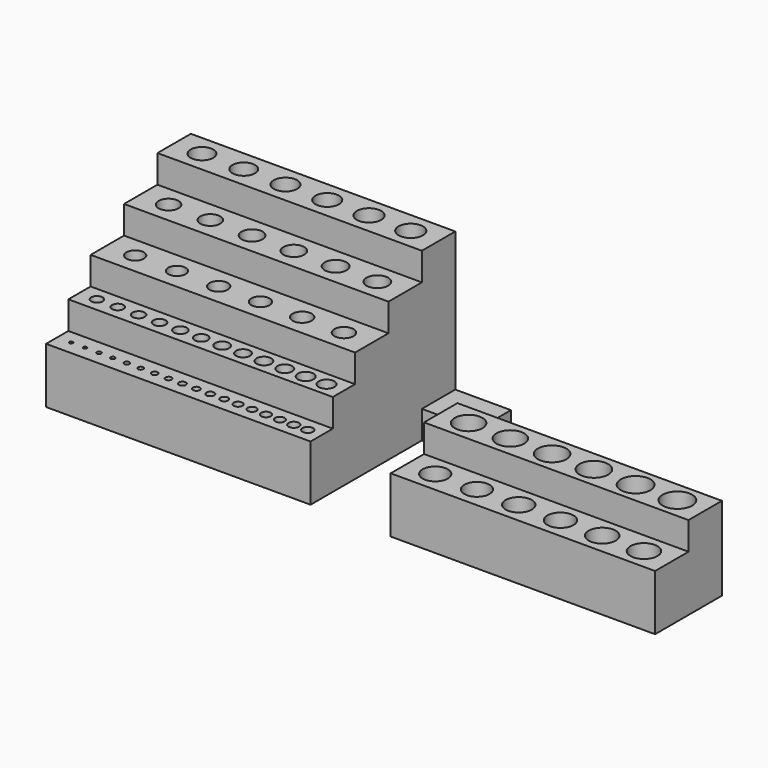
from build123d import *

# Parameters (mm, degrees)
F0_W      = 120.65
F0_H      = 19.05
F1_DEPTH  = 63.5
F2_DEPTH  = 50.8
F0_H_2    = 12.7
F3_DEPTH  = 38.1
F4_DEPTH  = 25.4
F6_D      = 1.5875
F6_DEPTH  = 19.05
F6_TIP    = 0.4769331164
F7_D      = 1.984375
F7_DEPTH  = 19.05
F7_TIP    = 0.5961663954
F8_D      = 2.38125
F8_DEPTH  = 19.05
F8_TIP    = 0.7153996745
F9_D      = 2.778125
F9_DEPTH  = 19.05
F9_TIP    = 0.8346329536
F10_D     = 3.175
F10_DEPTH = 19.05
F10_TIP   = 0.9538662327
F11_D     = 3.571875
F11_DEPTH = 19.05
F11_TIP   = 1.0730995118
F12_D     = 3.96875
F12_DEPTH = 19.05
F12_TIP   = 1.1923327909
F13_D     = 4.365625
F13_DEPTH = 19.05
F13_TIP   = 1.31156607
F14_D     = 4.7625
F14_DEPTH = 19.05
F14_TIP   = 1.4307993491
F16_D     = 5.159375
F16_DEPTH = 19.05
F16_TIP   = 1.5500326281
F17_D     = 5.55625
F17_DEPTH = 19.05
F17_TIP   = 1.6692659072
F18_D     = 5.953125
F18_DEPTH = 19.05
F18_TIP   = 1.7884991863
F19_D     = 6.35
F19_DEPTH = 19.05
F19_TIP   = 1.9077324654
F20_D     = 6.746875
F20_DEPTH = 19.05
F20_TIP   = 2.0269657445
F21_D     = 7.14375
F21_DEPTH = 19.05
F21_TIP   = 2.1461990236
F23_D     = 7.9375
F23_DEPTH = 19.05
F23_TIP   = 2.3846655818
F24_D     = 8.334375
F24_DEPTH = 19.05
F24_TIP   = 2.5038988609
F25_D     = 8.73125
F25_DEPTH = 19.05
F25_TIP   = 2.6231321399
F27_D     = 9.128125
F27_DEPTH = 19.05
F27_TIP   = 2.742365419
F28_D     = 9.525
F28_DEPTH = 19.05
F28_TIP   = 2.8615986981
F29_D     = 9.921875
F29_DEPTH = 19.05
F29_TIP   = 2.9808319772
F30_DEPTH = 76.2
F32_D     = 10.31875
F32_DEPTH = 19.05
F32_TIP   = 3.1000652563
F33_D     = 10.715625
F33_DEPTH = 19.05
F33_TIP   = 3.2192985354
F34_D     = 11.1125
F34_DEPTH = 19.05
F34_TIP   = 3.3385318145
F35_W     = 19.05
F35_H     = 12.7
F36_DEPTH = 25.4
F37_W     = 120.65
F37_H     = 19.05
F38_DEPTH = 25.4
F40_D     = 11.509375
F40_DEPTH = 19.05
F40_TIP   = 3.4577650936
F41_D     = 11.90625
F41_DEPTH = 19.05
F41_TIP   = 3.5769983726
F42_D     = 12.303125
F42_DEPTH = 19.05
F42_TIP   = 3.6962316517
F43_DEPTH = 38.1
F45_D     = 12.7
F45_DEPTH = 19.05
F45_TIP   = 3.8154649308
F46_D     = 13.096875
F46_DEPTH = 19.05
F46_TIP   = 3.9346982099
F47_D     = 13.49375
F47_DEPTH = 19.05
F47_TIP   = 4.053931489


with BuildPart() as f1:
    # F0 (on Top) → F1 (new body)
    with BuildSketch(Plane.XY):
        with Locations((0, 22.225)):
            Rectangle(F0_W, F0_H)
    extrude(amount=F1_DEPTH)

    # F0 (on Top) → F2 (join)
    with BuildSketch(Plane.XY):
        with Locations((0, 3.175)):
            Rectangle(F0_W, F0_H)
    extrude(amount=F2_DEPTH)

    # F0 (on Top) → F3 (join)
    with BuildSketch(Plane.XY):
        with Locations((0, -12.7)):
            Rectangle(F0_W, F0_H_2)
    extrude(amount=F3_DEPTH)

    # F0 (on Top) → F4 (join)
    with BuildSketch(Plane.XY):
        with Locations((0, -25.4)):
            Rectangle(F0_W, F0_H_2)
    extrude(amount=F4_DEPTH)

    # F6
    with Locations(Plane.XY.offset(25.4)):
        with Locations((-53.975, -25.4), (-47.625, -25.4)):
            Hole(F6_D / 2, depth=F6_DEPTH)
            with Locations((0, 0, -(F6_DEPTH + F6_TIP / 2))):  # 118° drill point
                Cone(0, F6_D / 2, F6_TIP, mode=Mode.SUBTRACT)

    # F7
    with Locations(Plane.XY.offset(25.4)):
        with Locations((-41.275, -25.4), (-34.925, -25.4)):
            Hole(F7_D / 2, depth=F7_DEPTH)
            with Locations((0, 0, -(F7_DEPTH + F7_TIP / 2))):  # 118° drill point
                Cone(0, F7_D / 2, F7_TIP, mode=Mode.SUBTRACT)

    # F8
    with Locations(Plane.XY.offset(25.4)):
        with Locations((-28.575, -25.4), (-22.225, -25.4)):
            Hole(F8_D / 2, depth=F8_DEPTH)
            with Locations((0, 0, -(F8_DEPTH + F8_TIP / 2))):  # 118° drill point
                Cone(0, F8_D / 2, F8_TIP, mode=Mode.SUBTRACT)

    # F9
    with Locations(Plane.XY.offset(25.4)):
        with Locations((-9.525, -25.4), (-15.875, -25.4)):
            Hole(F9_D / 2, depth=F9_DEPTH)
            with Locations((0, 0, -(F9_DEPTH + F9_TIP / 2))):  # 118° drill point
                Cone(0, F9_D / 2, F9_TIP, mode=Mode.SUBTRACT)

    # F10
    with Locations(Plane.XY.offset(25.4)):
        with Locations((-3.175, -25.4), (3.175, -25.4)):
            Hole(F10_D / 2, depth=F10_DEPTH)
            with Locations((0, 0, -(F10_DEPTH + F10_TIP / 2))):  # 118° drill point
                Cone(0, F10_D / 2, F10_TIP, mode=Mode.SUBTRACT)

    # F11
    with Locations(Plane.XY.offset(25.4)):
        with Locations((9.525, -25.4), (15.875, -25.4)):
            Hole(F11_D / 2, depth=F11_DEPTH)
            with Locations((0, 0, -(F11_DEPTH + F11_TIP / 2))):  # 118° drill point
                Cone(0, F11_D / 2, F11_TIP, mode=Mode.SUBTRACT)

    # F12
    with Locations(Plane.XY.offset(25.4)):
        with Locations((22.225, -25.4), (28.575, -25.4)):
            Hole(F12_D / 2, depth=F12_DEPTH)
            with Locations((0, 0, -(F12_DEPTH + F12_TIP / 2))):  # 118° drill point
                Cone(0, F12_D / 2, F12_TIP, mode=Mode.SUBTRACT)

    # F13
    with Locations(Plane.XY.offset(25.4)):
        with Locations((34.925, -25.4), (41.275, -25.4)):
            Hole(F13_D / 2, depth=F13_DEPTH)
            with Locations((0, 0, -(F13_DEPTH + F13_TIP / 2))):  # 118° drill point
                Cone(0, F13_D / 2, F13_TIP, mode=Mode.SUBTRACT)

    # F14
    with Locations(Plane.XY.offset(25.4)):
        with Locations((47.625, -25.4), (53.975, -25.4)):
            Hole(F14_D / 2, depth=F14_DEPTH)
            with Locations((0, 0, -(F14_DEPTH + F14_TIP / 2))):  # 118° drill point
                Cone(0, F14_D / 2, F14_TIP, mode=Mode.SUBTRACT)

    # F16
    with Locations(Plane.XY.offset(38.1)):
        with Locations((-52.3875, -12.7), (-42.8625, -12.7)):
            Hole(F16_D / 2, depth=F16_DEPTH)
            with Locations((0, 0, -(F16_DEPTH + F16_TIP / 2))):  # 118° drill point
                Cone(0, F16_D / 2, F16_TIP, mode=Mode.SUBTRACT)

    # F17
    with Locations(Plane.XY.offset(38.1)):
        with Locations((-33.3375, -12.7), (-23.8125, -12.7)):
            Hole(F17_D / 2, depth=F17_DEPTH)
            with Locations((0, 0, -(F17_DEPTH + F17_TIP / 2))):  # 118° drill point
                Cone(0, F17_D / 2, F17_TIP, mode=Mode.SUBTRACT)

    # F18
    with Locations(Plane.XY.offset(38.1)):
        with Locations((-14.2875, -12.7), (-4.7625, -12.7)):
            Hole(F18_D / 2, depth=F18_DEPTH)
            with Locations((0, 0, -(F18_DEPTH + F18_TIP / 2))):  # 118° drill point
                Cone(0, F18_D / 2, F18_TIP, mode=Mode.SUBTRACT)

    # F19
    with Locations(Plane.XY.offset(38.1)):
        with Locations((4.7625, -12.7), (14.2875, -12.7)):
            Hole(F19_D / 2, depth=F19_DEPTH)
            with Locations((0, 0, -(F19_DEPTH + F19_TIP / 2))):  # 118° drill point
                Cone(0, F19_D / 2, F19_TIP, mode=Mode.SUBTRACT)

    # F20
    with Locations(Plane.XY.offset(38.1)):
        with Locations((23.8125, -12.7), (33.3375, -12.7)):
            Hole(F20_D / 2, depth=F20_DEPTH)
            with Locations((0, 0, -(F20_DEPTH + F20_TIP / 2))):  # 118° drill point
                Cone(0, F20_D / 2, F20_TIP, mode=Mode.SUBTRACT)

    # F21
    with Locations(Plane.XY.offset(38.1)):
        with Locations((42.8625, -12.7), (52.3875, -12.7)):
            Hole(F21_D / 2, depth=F21_DEPTH)
            with Locations((0, 0, -(F21_DEPTH + F21_TIP / 2))):  # 118° drill point
                Cone(0, F21_D / 2, F21_TIP, mode=Mode.SUBTRACT)

    # F23
    with Locations(Plane.XY.offset(50.8)):
        with Locations((-47.625, 3.175), (-28.575, 3.175)):
            Hole(F23_D / 2, depth=F23_DEPTH)
            with Locations((0, 0, -(F23_DEPTH + F23_TIP / 2))):  # 118° drill point
                Cone(0, F23_D / 2, F23_TIP, mode=Mode.SUBTRACT)

    # F24
    with Locations(Plane.XY.offset(50.8)):
        with Locations((-9.525, 3.175), (9.525, 3.175)):
            Hole(F24_D / 2, depth=F24_DEPTH)
            with Locations((0, 0, -(F24_DEPTH + F24_TIP / 2))):  # 118° drill point
                Cone(0, F24_D / 2, F24_TIP, mode=Mode.SUBTRACT)

    # F25
    with Locations(Plane.XY.offset(50.8)):
        with Locations((28.575, 3.175), (47.625, 3.175)):
            Hole(F25_D / 2, depth=F25_DEPTH)
            with Locations((0, 0, -(F25_DEPTH + F25_TIP / 2))):  # 118° drill point
                Cone(0, F25_D / 2, F25_TIP, mode=Mode.SUBTRACT)

    # F27
    with Locations(Plane.XY.offset(63.5)):
        with Locations((-47.625, 22.225), (-28.575, 22.225)):
            Hole(F27_D / 2, depth=F27_DEPTH)
            with Locations((0, 0, -(F27_DEPTH + F27_TIP / 2))):  # 118° drill point
                Cone(0, F27_D / 2, F27_TIP, mode=Mode.SUBTRACT)

    # F28
    with Locations(Plane.XY.offset(63.5)):
        with Locations((-9.525, 22.225), (9.525, 22.225)):
            Hole(F28_D / 2, depth=F28_DEPTH)
            with Locations((0, 0, -(F28_DEPTH + F28_TIP / 2))):  # 118° drill point
                Cone(0, F28_D / 2, F28_TIP, mode=Mode.SUBTRACT)

    # F29
    with Locations(Plane.XY.offset(63.5)):
        with Locations((28.575, 22.225), (47.625, 22.225)):
            Hole(F29_D / 2, depth=F29_DEPTH)
            with Locations((0, 0, -(F29_DEPTH + F29_TIP / 2))):  # 118° drill point
                Cone(0, F29_D / 2, F29_TIP, mode=Mode.SUBTRACT)

    # F0 (on Top) → F30 (join)
    with BuildSketch(Plane.XY):
        with Locations((0, 41.275)):
            Rectangle(F0_W, F0_H)
    extrude(amount=F30_DEPTH)

    # F32
    with Locations(Plane.XY.offset(76.2)):
        with Locations((-47.625, 41.275), (-28.575, 41.275)):
            Hole(F32_D / 2, depth=F32_DEPTH)
            with Locations((0, 0, -(F32_DEPTH + F32_TIP / 2))):  # 118° drill point
                Cone(0, F32_D / 2, F32_TIP, mode=Mode.SUBTRACT)

    # F33
    with Locations(Plane.XY.offset(76.2)):
        with Locations((-9.525, 41.275), (9.525, 41.275)):
            Hole(F33_D / 2, depth=F33_DEPTH)
            with Locations((0, 0, -(F33_DEPTH + F33_TIP / 2))):  # 118° drill point
                Cone(0, F33_D / 2, F33_TIP, mode=Mode.SUBTRACT)

    # F34
    with Locations(Plane.XY.offset(76.2)):
        with Locations((28.575, 41.275), (47.625, 41.275)):
            Hole(F34_D / 2, depth=F34_DEPTH)
            with Locations((0, 0, -(F34_DEPTH + F34_TIP / 2))):  # 118° drill point
                Cone(0, F34_D / 2, F34_TIP, mode=Mode.SUBTRACT)

    # F35 (on face) → F36 (join)
    with BuildSketch(Plane.YZ.offset(60.325)):
        with Locations((41.275, 6.35)):
            Rectangle(F35_W, F35_H)
    extrude(amount=F36_DEPTH)


with BuildPart() as f38:
    # F37 (on Top) → F38 (new body)
    with BuildSketch(Plane.XY):
        with Locations((158.2636684179, -23.5576079339)):
            Rectangle(F37_W, F37_H)
    extrude(amount=F38_DEPTH)

    # F40
    with Locations(Plane.XY.offset(25.4)):
        with Locations((110.6386684179, -23.5576079339), (129.6886684179, -23.5576079339)):
            Hole(F40_D / 2, depth=F40_DEPTH)
            with Locations((0, 0, -(F40_DEPTH + F40_TIP / 2))):  # 118° drill point
                Cone(0, F40_D / 2, F40_TIP, mode=Mode.SUBTRACT)

    # F41
    with Locations(Plane.XY.offset(25.4)):
        with Locations((148.7386684179, -23.5576079339), (167.7886684179, -23.5576079339)):
            Hole(F41_D / 2, depth=F41_DEPTH)
            with Locations((0, 0, -(F41_DEPTH + F41_TIP / 2))):  # 118° drill point
                Cone(0, F41_D / 2, F41_TIP, mode=Mode.SUBTRACT)

    # F42
    with Locations(Plane.XY.offset(25.4)):
        with Locations((186.8386684179, -23.5576079339), (205.8886684179, -23.5576079339)):
            Hole(F42_D / 2, depth=F42_DEPTH)
            with Locations((0, 0, -(F42_DEPTH + F42_TIP / 2))):  # 118° drill point
                Cone(0, F42_D / 2, F42_TIP, mode=Mode.SUBTRACT)

    # F37 (on Top) → F43 (join)
    with BuildSketch(Plane.XY):
        with Locations((158.2636684179, -4.5076079339)):
            Rectangle(F37_W, F37_H)
    extrude(amount=F43_DEPTH)

    # F45
    with Locations(Plane.XY.offset(38.1)):
        with Locations((110.6386684179, -4.5076079339), (129.6886684179, -4.5076079339)):
            Hole(F45_D / 2, depth=F45_DEPTH)
            with Locations((0, 0, -(F45_DEPTH + F45_TIP / 2))):  # 118° drill point
                Cone(0, F45_D / 2, F45_TIP, mode=Mode.SUBTRACT)

    # F46
    with Locations(Plane.XY.offset(38.1)):
        with Locations((167.7886684179, -4.5076079339), (148.7386684179, -4.5076079339)):
            Hole(F46_D / 2, depth=F46_DEPTH)
            with Locations((0, 0, -(F46_DEPTH + F46_TIP / 2))):  # 118° drill point
                Cone(0, F46_D / 2, F46_TIP, mode=Mode.SUBTRACT)

    # F47
    with Locations(Plane.XY.offset(38.1)):
        with Locations((186.8386684179, -4.5076079339), (205.8886684179, -4.5076079339)):
            Hole(F47_D / 2, depth=F47_DEPTH)
            with Locations((0, 0, -(F47_DEPTH + F47_TIP / 2))):  # 118° drill point
                Cone(0, F47_D / 2, F47_TIP, mode=Mode.SUBTRACT)


solid = Compound([f1.part, f38.part])
